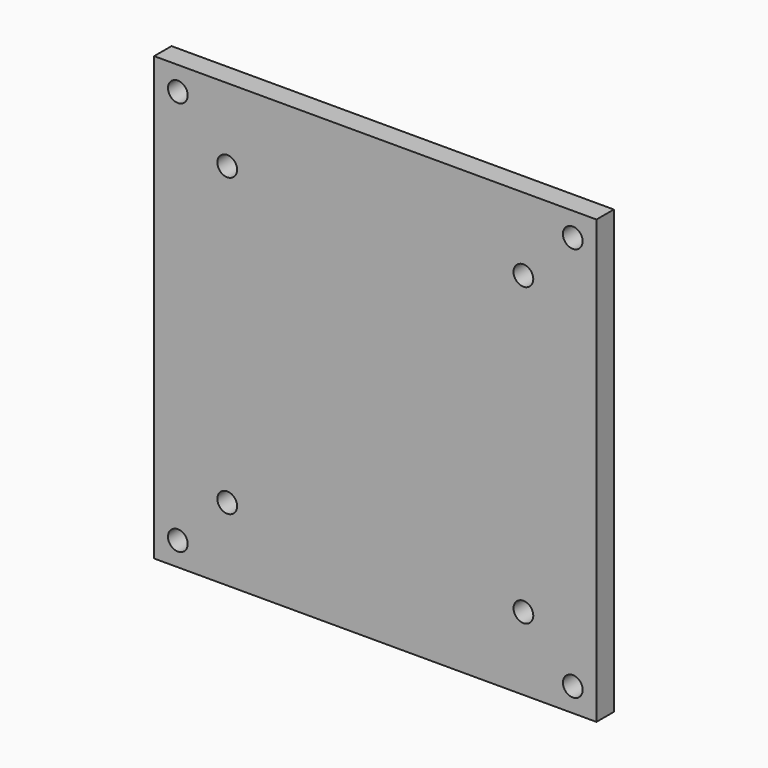
from build123d import *

# Parameters (mm, degrees)
SKETCH002_W        = 112
SKETCH002_H        = 112
PAD001_DEPTH       = 5.5
SKETCH003_R        = 2.5
POCKET_DEPTH       = 322.475762
POLARPATTERN_COUNT = 4


with BuildPart() as part:
    # Sketch002 → Pad001 (new body)
    with BuildSketch(Plane.XZ):
        Rectangle(SKETCH002_W, SKETCH002_H)
    extrude(amount=-PAD001_DEPTH)

    # Sketch003 (on Face5 of Pad001) → Pocket (cut, through all)
    with BuildSketch(Plane.XZ):
        with Locations((-50, 50)):
            Circle(SKETCH003_R)
        with Locations((-37.5, 37.5)):
            Circle(SKETCH003_R)
    pocket = extrude(amount=-POCKET_DEPTH, mode=Mode.SUBTRACT)

    # PolarPattern: Pocket ×4 about axis
    polarpattern_axis = Axis((0, 0, 0), (0, -1, 0))
    for i in range(1, POLARPATTERN_COUNT):
        add(pocket.rotate(polarpattern_axis, i * 360 / POLARPATTERN_COUNT), mode=Mode.SUBTRACT)


solid = part.part
